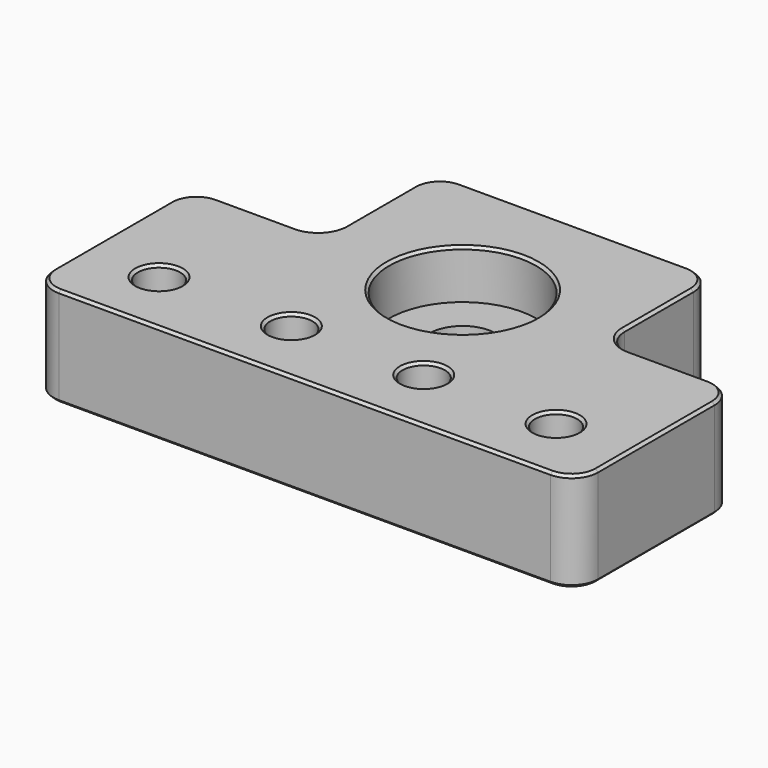
from build123d import *

# Parameters (mm, degrees)
SKETCH_R        = 5
SKETCH_R_2      = 3.2
PAD_DEPTH       = 15
SKETCH002_R     = 6.1
POCKET001_DEPTH = 4
SKETCH003_R     = 11.1
POCKET_DEPTH    = 7.4
FILLET_R        = 4
CHAMFER_SIZE    = 0.4
CHAMFER001_SIZE = 0.4


with BuildPart() as part:
    # Sketch → Pad (new body)
    with BuildSketch(Plane.XY):
        Polygon((20, 30), (20, 51), (62.3, 51), (62.3, 30), (82.3, 30), (82.3, 0), (0, 0), (0, 30), align=None)
        with Locations((41.15, 29.85)):
            Circle(SKETCH_R, mode=Mode.SUBTRACT)
        with Locations((11.15, 10)):
            Circle(SKETCH_R_2, mode=Mode.SUBTRACT)
        with Locations((31.15, 10)):
            Circle(SKETCH_R_2, mode=Mode.SUBTRACT)
        with Locations((51.15, 10)):
            Circle(SKETCH_R_2, mode=Mode.SUBTRACT)
        with Locations((71.15, 10)):
            Circle(SKETCH_R_2, mode=Mode.SUBTRACT)
    extrude(amount=PAD_DEPTH)

    # Sketch002 → Pocket001 (cut)
    with BuildSketch(Plane(origin=(0, 0, 0), x_dir=(1, 0, 0), z_dir=(0, 0, -1))):
        with Locations((11.15, -10)):
            Circle(SKETCH002_R)
        with Locations((31.15, -10)):
            Circle(SKETCH002_R)
        with Locations((51.15, -10)):
            Circle(SKETCH002_R)
        with Locations((71.15, -10)):
            Circle(SKETCH002_R)
    extrude(amount=-POCKET001_DEPTH, mode=Mode.SUBTRACT)

    # Sketch003 (on Face5 of Pocket001) → Pocket (cut)
    with BuildSketch(Plane.XY.offset(15)):
        with Locations((41.15, 29.85)):
            Circle(SKETCH003_R)
    extrude(amount=-POCKET_DEPTH, mode=Mode.SUBTRACT)

    # Fillet
    fillet_edges = [part.edges().sort_by_distance(p)[0] for p in [
        (82.3, 0, 7.5),
        (0, 0, 7.5),
        (0, 30, 7.5),
        (20, 30, 7.5),
        (20, 51, 7.5),
        (62.3, 51, 7.5),
        (62.3, 30, 7.5),
        (82.3, 30, 7.5),
    ]]
    fillet(fillet_edges, radius=FILLET_R)

    # Chamfer
    chamfer_edges = [part.edges().sort_by_distance(p)[0] for p in [
        (20, 40.5, 0),
        (18.828427, 31.171573, 0),
        (21.171573, 49.828427, 0),
        (10, 30, 0),
        (41.15, 51, 0),
        (1.171573, 28.828427, 0),
        (61.128427, 49.828427, 0),
        (0, 15, 0),
        (62.3, 40.5, 0),
        (1.171573, 1.171573, 0),
        (63.471573, 31.171573, 0),
        (41.15, 0, 0),
        (72.3, 30, 0),
        (81.128427, 1.171573, 0),
        (81.128427, 28.828427, 0),
        (82.3, 15, 0),
        (65.05, 10, 0),
        (45.05, 10, 0),
        (25.05, 10, 0),
        (5.05, 10, 0),
        (36.15, 29.85, 0),
    ]]
    chamfer(chamfer_edges, length=CHAMFER_SIZE)

    # Chamfer001
    chamfer001_edges = [part.edges().sort_by_distance(p)[0] for p in [
        (20, 40.5, 15),
        (18.828427, 31.171573, 15),
        (21.171573, 49.828427, 15),
        (10, 30, 15),
        (41.15, 51, 15),
        (1.171573, 28.828427, 15),
        (61.128427, 49.828427, 15),
        (0, 15, 15),
        (62.3, 40.5, 15),
        (1.171573, 1.171573, 15),
        (63.471573, 31.171573, 15),
        (41.15, 0, 15),
        (72.3, 30, 15),
        (81.128427, 1.171573, 15),
        (81.128427, 28.828427, 15),
        (82.3, 15, 15),
        (67.95, 10, 15),
        (47.95, 10, 15),
        (27.95, 10, 15),
        (7.95, 10, 15),
        (30.05, 29.85, 15),
    ]]
    chamfer(chamfer001_edges, length=CHAMFER001_SIZE)


solid = part.part
